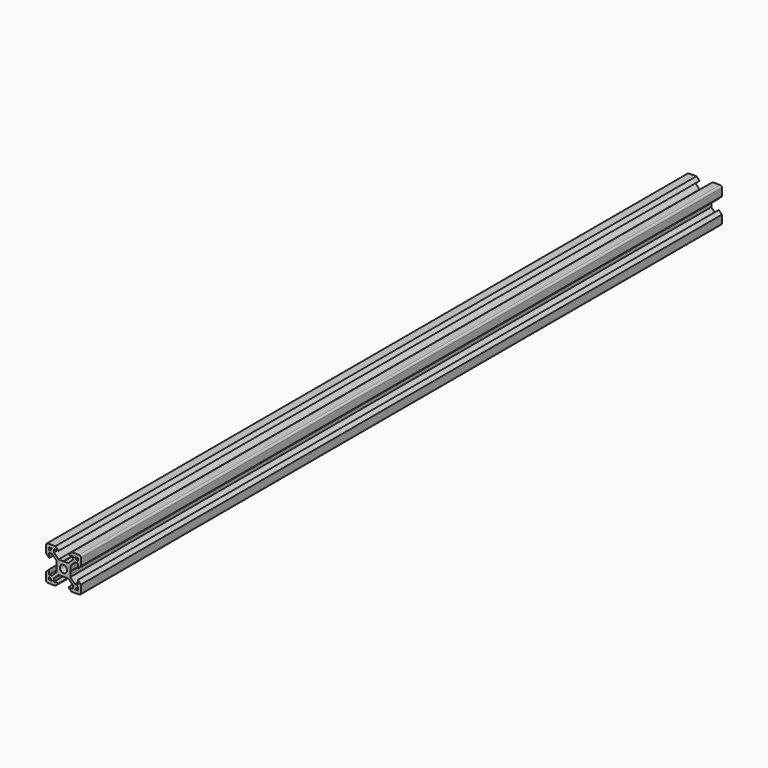
from build123d import *

# Parameters (mm, degrees)
F0_R     = 2.1
F1_DEPTH = 460


with BuildPart() as f1:
    # F0 (on Front) → F1 (new body)
    with BuildSketch(Plane.XZ):
        with BuildLine():
            Line((-4.64, 10), (-9, 10))
            ThreePointArc((-9, 10), (-9.707107, 9.707107), (-10, 9))
            Line((-10, 9), (-10, 4.64))
            Line((-10, 4.64), (-8.2, 2.84))
            Line((-8.2, 2.84), (-8.2, 5.49934))
            Line((-8.2, 5.49934), (-6.56, 5.49934))
            Line((-6.56, 5.49934), (-3.90066, 2.84))
            Line((-3.90066, 2.84), (-3.90066, 0.15))
            Line((-3.90066, 0.15), (-3.75066, 0))
            Line((-3.75066, 0), (-3.90066, -0.15))
            Line((-3.90066, -0.15), (-3.90066, -2.84))
            Line((-3.90066, -2.84), (-6.56, -5.49934))
            Line((-6.56, -5.49934), (-8.2, -5.49934))
            Line((-8.2, -5.49934), (-8.2, -2.84))
            Line((-8.2, -2.84), (-10, -4.64))
            Line((-10, -4.64), (-10, -9))
            ThreePointArc((-10, -9), (-9.707107, -9.707107), (-9, -10))
            Line((-9, -10), (-4.64, -10))
            Line((-4.64, -10), (-2.84, -8.2))
            Line((-2.84, -8.2), (-5.49934, -8.2))
            Line((-5.49934, -8.2), (-5.49934, -6.56))
            Line((-5.49934, -6.56), (-2.84, -3.90066))
            Line((-2.84, -3.90066), (-0.15, -3.90066))
            Line((-0.15, -3.90066), (0, -3.75066))
            Line((0, -3.75066), (0.15, -3.90066))
            Line((0.15, -3.90066), (2.84, -3.90066))
            Line((2.84, -3.90066), (5.49934, -6.56))
            Line((5.49934, -6.56), (5.49934, -8.2))
            Line((5.49934, -8.2), (2.84, -8.2))
            Line((2.84, -8.2), (4.64, -10))
            Line((4.64, -10), (9, -10))
            ThreePointArc((9, -10), (9.707107, -9.707107), (10, -9))
            Line((10, -9), (10, -4.64))
            Line((10, -4.64), (8.2, -2.84))
            Line((8.2, -2.84), (8.2, -5.49934))
            Line((8.2, -5.49934), (6.56, -5.49934))
            Line((6.56, -5.49934), (3.90066, -2.84))
            Line((3.90066, -2.84), (3.90066, -0.15))
            Line((3.90066, -0.15), (3.75066, 0))
            Line((3.75066, 0), (3.90066, 0.15))
            Line((3.90066, 0.15), (3.90066, 2.84))
            Line((3.90066, 2.84), (6.56, 5.49934))
            Line((6.56, 5.49934), (8.2, 5.49934))
            Line((8.2, 5.49934), (8.2, 2.84))
            Line((8.2, 2.84), (10, 4.64))
            Line((10, 4.64), (10, 9))
            ThreePointArc((10, 9), (9.707107, 9.707107), (9, 10))
            Line((9, 10), (4.64, 10))
            Line((4.64, 10), (2.84, 8.2))
            Line((2.84, 8.2), (5.49934, 8.2))
            Line((5.49934, 8.2), (5.49934, 6.56))
            Line((5.49934, 6.56), (2.84, 3.90066))
            Line((2.84, 3.90066), (0.15, 3.90066))
            Line((0.15, 3.90066), (0, 3.75066))
            Line((0, 3.75066), (-0.15, 3.90066))
            Line((-0.15, 3.90066), (-2.84, 3.90066))
            Line((-2.84, 3.90066), (-5.49934, 6.56))
            Line((-5.49934, 6.56), (-5.49934, 8.2))
            Line((-5.49934, 8.2), (-2.84, 8.2))
            Line((-2.84, 8.2), (-4.64, 10))
        make_face()
        with BuildLine():
            Line((-8.2, -8.2), (-8.2, -6.71))
            ThreePointArc((-8.2, -6.71), (-8.156066, -6.603934), (-8.05, -6.56))
            Line((-8.05, -6.56), (-7.98749, -6.56))
            Line((-7.98749, -6.56), (-6.603934, -7.943556))
            ThreePointArc((-6.603934, -7.943556), (-6.571418, -7.992219), (-6.56, -8.049622))
            Line((-6.56, -8.049622), (-6.56, -8.05))
            ThreePointArc((-6.56, -8.05), (-6.603934, -8.156066), (-6.71, -8.2))
            Line((-6.71, -8.2), (-8.2, -8.2))
        make_face(mode=Mode.SUBTRACT)
        with BuildLine():
            ThreePointArc((6.71, -8.2), (6.603934, -8.156066), (6.56, -8.05))
            Line((6.56, -8.05), (6.56, -7.98749))
            Line((6.56, -7.98749), (7.943556, -6.603934))
            ThreePointArc((7.943556, -6.603934), (7.992219, -6.571418), (8.049622, -6.56))
            Line((8.049622, -6.56), (8.2, -6.56))
            Line((8.2, -6.56), (8.2, -8.05))
            ThreePointArc((8.2, -8.05), (8.156066, -8.156066), (8.05, -8.2))
            Line((8.05, -8.2), (6.71, -8.2))
        make_face(mode=Mode.SUBTRACT)
        with BuildLine():
            ThreePointArc((-8.2, 8.05), (-8.156066, 8.156066), (-8.05, 8.2))
            Line((-8.05, 8.2), (-6.71, 8.2))
            ThreePointArc((-6.71, 8.2), (-6.603934, 8.156066), (-6.56, 8.05))
            Line((-6.56, 8.05), (-6.56, 8.049622))
            ThreePointArc((-6.56, 8.049622), (-6.571418, 7.992219), (-6.603934, 7.943556))
            Line((-6.603934, 7.943556), (-7.943556, 6.603934))
            ThreePointArc((-7.943556, 6.603934), (-7.992219, 6.571418), (-8.049622, 6.56))
            Line((-8.049622, 6.56), (-8.05, 6.56))
            ThreePointArc((-8.05, 6.56), (-8.156066, 6.603934), (-8.2, 6.71))
            Line((-8.2, 6.71), (-8.2, 8.05))
        make_face(mode=Mode.SUBTRACT)
        Circle(F0_R, mode=Mode.SUBTRACT)
        with BuildLine():
            Line((8.2, 8.05), (8.2, 6.71))
            ThreePointArc((8.2, 6.71), (8.156066, 6.603934), (8.05, 6.56))
            Line((8.05, 6.56), (7.98749, 6.56))
            Line((7.98749, 6.56), (6.56, 7.98749))
            Line((6.56, 7.98749), (6.56, 8.05))
            ThreePointArc((6.56, 8.05), (6.603934, 8.156066), (6.71, 8.2))
            Line((6.71, 8.2), (8.05, 8.2))
            ThreePointArc((8.05, 8.2), (8.156066, 8.156066), (8.2, 8.05))
        make_face(mode=Mode.SUBTRACT)
    extrude(amount=F1_DEPTH)


solid = f1.part
